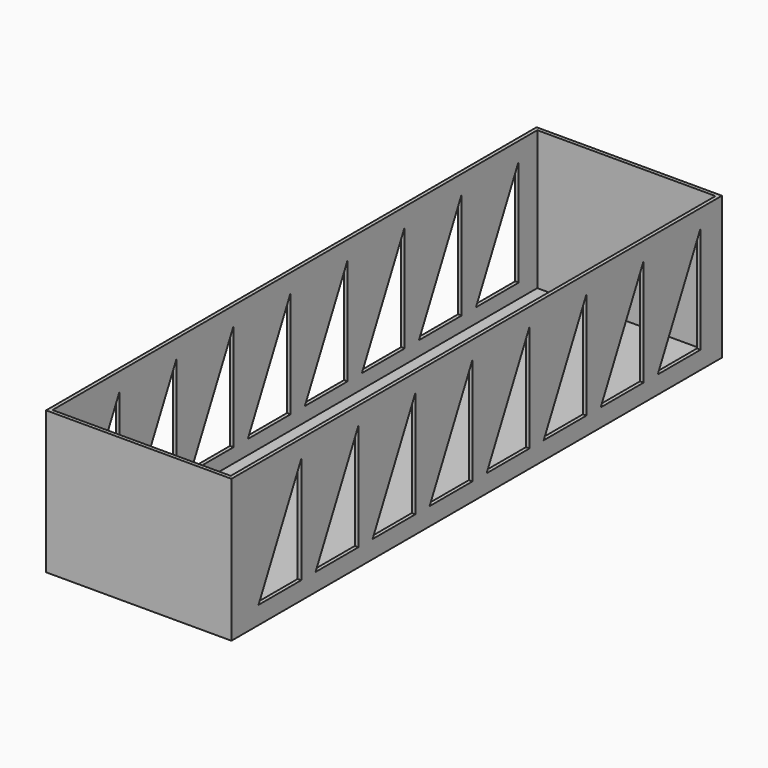
from build123d import *

# Parameters (mm, degrees)
F0_W     = 66.04
F0_H     = 218.44
F0_W_2   = 63.5
F0_H_2   = 215.9
F1_DEPTH = 1.27
F2_DEPTH = 50.8
F4_DEPTH = 76.2


with BuildPart() as f1:
    # F0 (on Top) → F1 (new body)
    with BuildSketch(Plane.XY):
        Rectangle(F0_W, F0_H)
        Rectangle(F0_W_2, F0_H_2, mode=Mode.SUBTRACT)
        Rectangle(F0_W_2, F0_H_2)
    extrude(amount=F1_DEPTH)

    # F0 (on Top) → F2 (join)
    with BuildSketch(Plane.XY):
        Rectangle(F0_W, F0_H)
        Rectangle(F0_W_2, F0_H_2, mode=Mode.SUBTRACT)
    extrude(amount=F2_DEPTH)

    # F3 (on face) → F4 (cut)
    with BuildSketch(Plane(origin=(-33.02, 0, 0), x_dir=(0, -1, 0), z_dir=(-1, 0, 0))):
        Polygon((-80.645, 6.35), (-99.695, 44.45), (-99.695, 6.35), align=None)
        Polygon((-74.295, 6.35), (-55.245, 6.35), (-74.295, 44.45), align=None)
        Polygon((-48.895, 6.35), (-29.845, 6.35), (-48.895, 44.45), align=None)
        Polygon((-23.495, 6.35), (-4.445, 6.35), (-23.495, 44.45), align=None)
        Polygon((1.905, 6.35), (20.955, 6.35), (1.905, 44.45), align=None)
        Polygon((27.305, 6.35), (46.355, 6.35), (27.305, 44.45), align=None)
        Polygon((52.705, 6.35), (71.755, 6.35), (52.705, 44.45), align=None)
        Polygon((78.105, 6.35), (97.155, 6.35), (78.105, 44.45), align=None)
    extrude(amount=-F4_DEPTH, mode=Mode.SUBTRACT)


solid = f1.part
